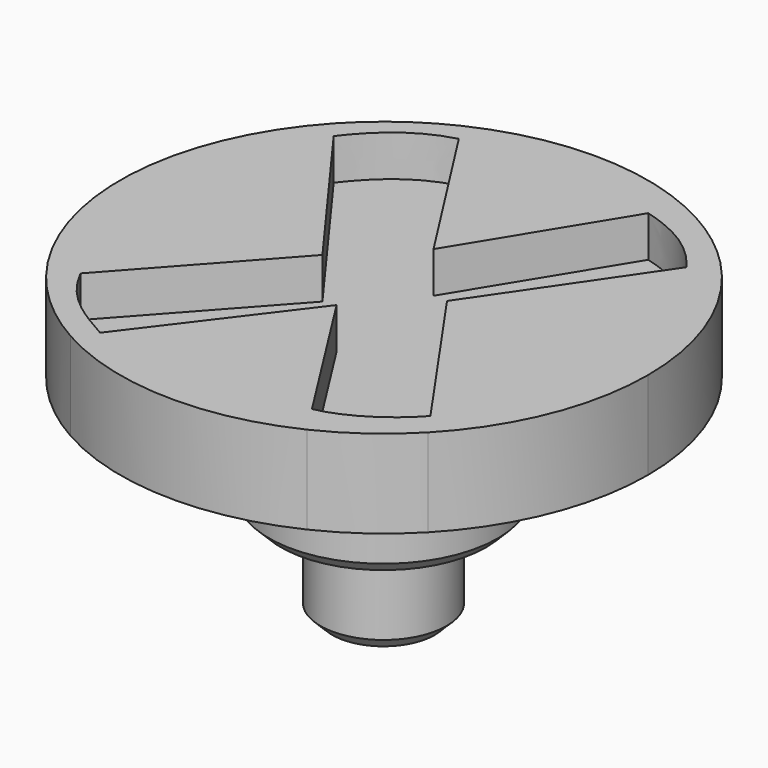
from build123d import *

# Parameters (mm, degrees)
F0_R      = 4.4
F0_R_2    = 3.9
F1_DEPTH  = 1
F0_R_3    = 2.15
F2_DEPTH  = 4
F3_DEPTH  = 7.2
F4_SIZE   = 0.4
F4_2_SIZE = 0.4
F6_DEPTH  = 3
F7_DEPTH  = 1.6


with BuildPart() as f1:
    # F0 (on Top) → F1 (new body)
    with BuildSketch(Plane.XY):
        Circle(F0_R)
        Circle(F0_R_2, mode=Mode.SUBTRACT)
    extrude(amount=-F1_DEPTH)


with BuildPart() as f2:
    # F0 (on Top) → F2 (new body)
    with BuildSketch(Plane.XY):
        Circle(F0_R_2)
        Circle(F0_R_3, mode=Mode.SUBTRACT)
    extrude(amount=-F2_DEPTH)

    # F4#2
    f4_2_edges = [f2.edges().sort_by_distance(p)[0] for p in [
        (-3.9, 0, -4),
    ]]
    chamfer(f4_2_edges, length=F4_2_SIZE)


with BuildPart() as f3:
    # F0 (on Top) → F3 (new body)
    with BuildSketch(Plane.XY):
        Circle(F0_R_3)
    extrude(amount=-F3_DEPTH)

    # F4
    f4_edges = [f3.edges().sort_by_distance(p)[0] for p in [
        (-2.15, 0, -7.2),
    ]]
    chamfer(f4_edges, length=F4_SIZE)


with BuildPart() as f6:
    # F5 (on Top) → F6 (new body)
    with BuildSketch(Plane.XY):
        with BuildLine():
            Line((-6.0892713733, 5.4873203656), (-6.5243323659, 6.0827518776))
            ThreePointArc((-6.5243323659, 6.0827518776), (-8.9320904111, 0.3343698838), (-7.0281679871, -5.5999602177))
            Line((-7.0281679871, -5.5999602177), (-6.4074416083, -4.9096305772))
            Line((-6.4074416083, -4.9096305772), (-2.0408540685, -0.0534090447))
            Line((-2.0408540685, -0.0534090447), (-6.0892713733, 5.4873203656))
        make_face()
        with BuildLine():
            Line((3.2311318076, 7.2501914379), (3.7765226559, 8.1431833429))
            ThreePointArc((3.7765226559, 8.1431833429), (-0.0154553372, 8.9462783914), (-3.7935208631, 8.0800915531))
            Line((-3.7935208631, 8.0800915531), (-3.3870265948, 7.4446869595))
            Line((-3.3870265948, 7.4446869595), (0.0595516804, 2.0572268171))
            Line((0.0595516804, 2.0572268171), (3.2311318076, 7.2501914379))
        make_face()
        with BuildLine():
            ThreePointArc((6.5496845944, -6.2886455887), (8.40853953, -3.4141235353), (9.0595516804, -0.0534090447))
            ThreePointArc((9.0595516804, -0.0534090447), (8.3962502233, 3.3376759447), (6.5041167016, 6.2289139085))
            Line((6.5041167016, 6.2289139085), (5.9761489139, 5.4567581367))
            Line((5.9761489139, 5.4567581367), (2.2085272986, -0.0534090447))
            Line((2.2085272986, -0.0534090447), (6.0082806477, -5.5110230693))
            Line((6.0082806477, -5.5110230693), (6.5496845944, -6.2886455887))
        make_face()
        with BuildLine():
            ThreePointArc((-4.3492430884, -7.8995882859), (-0.2413807746, -9.0483765075), (3.9340770883, -8.1767121207))
            Line((3.9340770883, -8.1767121207), (3.2933122449, -7.167650417))
            Line((3.2933122449, -7.167650417), (0.0595516804, -2.0751988283))
            Line((0.0595516804, -2.0751988283), (-3.8610982863, -7.2547078621))
            Line((-3.8610982863, -7.2547078621), (-4.3492430884, -7.8995882859))
        make_face()
        with BuildLine():
            Line((5.9761489139, 5.4567581367), (6.5041167016, 6.2289139085))
            ThreePointArc((6.5041167016, 6.2289139085), (5.2296880731, 7.313387388), (3.7765226559, 8.1431833429))
            Line((3.7765226559, 8.1431833429), (3.2311318076, 7.2501914379))
            add(Edge.make_bspline(
                [(5.9761489139, 5.4567581367), (5.2944198251, 6.3480366953), (4.5057819225, 6.8931155838), (3.2311318076, 7.2501914379)],
                knots=[0, 0, 0, 0, 3.2789513445, 3.2789513445, 3.2789513445, 3.2789513445], degree=3))
        make_face()
        with BuildLine():
            Line((-3.3870265948, 7.4446869595), (-3.7935208631, 8.0800915531))
            ThreePointArc((-3.7935208631, 8.0800915531), (-5.253626009, 7.2108970365), (-6.5243323659, 6.0827518776))
            Line((-6.5243323659, 6.0827518776), (-6.0892713733, 5.4873203656))
            add(Edge.make_bspline(
                [(-3.3870265948, 7.4446869595), (-4.5445985161, 7.1393079124), (-5.397524219, 6.3971867785), (-6.0892713733, 5.4873203656)],
                knots=[0, 0, 0, 0, 3.3366766139, 3.3366766139, 3.3366766139, 3.3366766139], degree=3))
        make_face()
        with BuildLine():
            ThreePointArc((3.9340770883, -8.1767121207), (5.3271635054, -7.3508240432), (6.5496845944, -6.2886455887))
            Line((6.5496845944, -6.2886455887), (6.0082806477, -5.5110230693))
            add(Edge.make_bspline(
                [(3.2933122449, -7.167650417), (4.0642218664, -7.0251747966), (5.1508806646, -6.459673401), (6.0082806477, -5.5110230693)],
                knots=[0, 0, 0, 0, 3.18048229, 3.18048229, 3.18048229, 3.18048229], degree=3))
            Line((3.2933122449, -7.167650417), (3.9340770883, -8.1767121207))
        make_face()
        with BuildLine():
            ThreePointArc((-7.0281679871, -5.5999602177), (-5.8025753533, -6.8824255654), (-4.3492430884, -7.8995882859))
            Line((-4.3492430884, -7.8995882859), (-3.8610982863, -7.2547078621))
            add(Edge.make_bspline(
                [(-6.4074416083, -4.9096305772), (-5.7813981548, -6.1453632079), (-4.9355686642, -6.6490704194), (-3.8610982863, -7.2547078621)],
                knots=[0, 0, 0, 0, 3.4616833745, 3.4616833745, 3.4616833745, 3.4616833745], degree=3))
            Line((-6.4074416083, -4.9096305772), (-7.0281679871, -5.5999602177))
        make_face()
    extrude(amount=F6_DEPTH)


with BuildPart() as f7:
    # F5 (on Top) → F7 (new body)
    with BuildSketch(Plane.XY):
        with BuildLine():
            Line((2.2085272986, -0.0534090447), (5.9761489139, 5.4567581367))
            add(Edge.make_bspline(
                [(5.9761489139, 5.4567581367), (5.2944198251, 6.3480366953), (4.5057819225, 6.8931155838), (3.2311318076, 7.2501914379)],
                knots=[0, 0, 0, 0, 3.2789513445, 3.2789513445, 3.2789513445, 3.2789513445], degree=3))
            Line((3.2311318076, 7.2501914379), (0.0595516804, 2.0572268171))
            Line((0.0595516804, 2.0572268171), (-3.3870265948, 7.4446869595))
            add(Edge.make_bspline(
                [(-3.3870265948, 7.4446869595), (-4.5445985161, 7.1393079124), (-5.397524219, 6.3971867785), (-6.0892713733, 5.4873203656)],
                knots=[0, 0, 0, 0, 3.3366766139, 3.3366766139, 3.3366766139, 3.3366766139], degree=3))
            Line((-6.0892713733, 5.4873203656), (-2.0408540685, -0.0534090447))
            Line((-2.0408540685, -0.0534090447), (-6.4074416083, -4.9096305772))
            add(Edge.make_bspline(
                [(-6.4074416083, -4.9096305772), (-5.7813981548, -6.1453632079), (-4.9355686642, -6.6490704194), (-3.8610982863, -7.2547078621)],
                knots=[0, 0, 0, 0, 3.4616833745, 3.4616833745, 3.4616833745, 3.4616833745], degree=3))
            Line((-3.8610982863, -7.2547078621), (0.0595516804, -2.0751988283))
            Line((0.0595516804, -2.0751988283), (3.2933122449, -7.167650417))
            add(Edge.make_bspline(
                [(3.2933122449, -7.167650417), (4.0642218664, -7.0251747966), (5.1508806646, -6.459673401), (6.0082806477, -5.5110230693)],
                knots=[0, 0, 0, 0, 3.18048229, 3.18048229, 3.18048229, 3.18048229], degree=3))
            Line((6.0082806477, -5.5110230693), (2.2085272986, -0.0534090447))
        make_face()
    extrude(amount=F7_DEPTH)


solid = Compound([f1.part, f2.part, f3.part, f6.part, f7.part])
